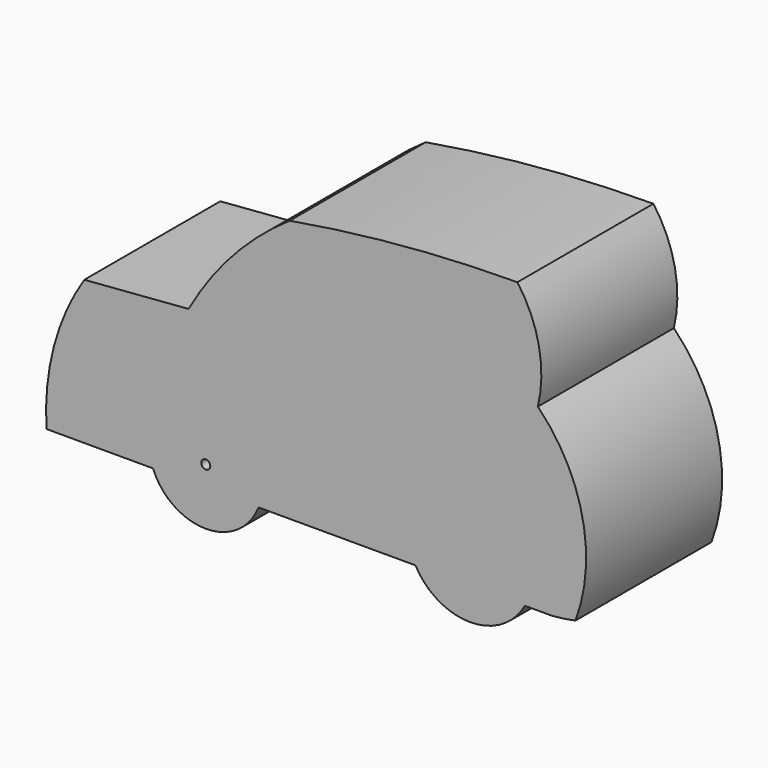
from build123d import *

# Parameters (mm, degrees)
F0_R     = 10.0661107962
F1_DEPTH = 381


with BuildPart() as f1:
    # F0 (on Front) → F1 (new body)
    with BuildSketch(Plane.XZ):
        with BuildLine():
            ThreePointArc((-460.4171146545, -80.3520751223), (-528.7422428891, -234.5899299241), (-545.0866186853, -402.490199078))
            Line((-545.0866186853, -402.490199078), (-306.3518632039, -402.490199078))
            ThreePointArc((-306.3518632039, -402.490199078), (-211.6500630521, -231.3956211083), (-61.0918521756, -356.1914972432))
            ThreePointArc((-61.0918521756, -356.1914972432), (-63.2959760406, -379.7497081198), (-69.8318411473, -402.490199078))
            Line((-69.8318411473, -402.490199078), (281.923010605, -402.490199078))
            ThreePointArc((281.923010605, -402.490199078), (369.5574089397, -199.0626294837), (544.651634751, -334.7260951996))
            ThreePointArc((544.651634751, -334.7260951996), (540.2117829098, -369.7170034539), (527.173623783, -402.490199078))
            Line((527.173623783, -402.490199078), (587.5886353005, -402.490199078))
            ThreePointArc((587.5886353005, -402.490199078), (614.2875363688, -399.5230484268), (640.7299934295, -394.7868299108))
            ThreePointArc((640.7299934295, -394.7868299108), (656.2355333133, -185.0675662335), (556.3726911105, 0))
            Line((556.3726911105, 0), (-226.5663393053, -61.8719576371))
            Line((-226.5663393053, -61.8719576371), (-409.496628924, -76.3280706806))
            Line((-409.496628924, -76.3280706806), (-460.4171146545, -80.3520751223))
        make_face()
        with BuildLine():
            ThreePointArc((0, 185.9708741245), (-127.8124548077, 75.3314520254), (-226.5663393053, -61.8719576371))
            Line((-226.5663393053, -61.8719576371), (556.3726911105, 0))
            ThreePointArc((556.3726911105, 0), (558.7501920915, 120.3142873349), (510.4560028632, 230.5361160923))
            ThreePointArc((510.4560028632, 230.5361160923), (254.2993354525, 218.8905544569), (0, 185.9708741245))
        make_face()
        with BuildLine():
            ThreePointArc((-460.4171146545, -80.3520751223), (-528.7422428891, -234.5899299241), (-545.0866186853, -402.490199078))
            Line((-545.0866186853, -402.490199078), (-306.3518632039, -402.490199078))
            ThreePointArc((-306.3518632039, -402.490199078), (-211.6500630521, -231.3956211083), (-61.0918521756, -356.1914972432))
            ThreePointArc((-61.0918521756, -356.1914972432), (-63.2959760406, -379.7497081198), (-69.8318411473, -402.490199078))
            Line((-69.8318411473, -402.490199078), (281.923010605, -402.490199078))
            ThreePointArc((281.923010605, -402.490199078), (369.5574089397, -199.0626294837), (544.651634751, -334.7260951996))
            ThreePointArc((544.651634751, -334.7260951996), (540.2117829098, -369.7170034539), (527.173623783, -402.490199078))
            Line((527.173623783, -402.490199078), (587.5886353005, -402.490199078))
            ThreePointArc((587.5886353005, -402.490199078), (614.2875363688, -399.5230484268), (640.7299934295, -394.7868299108))
            ThreePointArc((640.7299934295, -394.7868299108), (656.2355333133, -185.0675662335), (556.3726911105, 0))
            Line((556.3726911105, 0), (-226.5663393053, -61.8719576371))
            Line((-226.5663393053, -61.8719576371), (-409.496628924, -76.3280706806))
            Line((-409.496628924, -76.3280706806), (-460.4171146545, -80.3520751223))
        make_face()
        with BuildLine():
            ThreePointArc((-61.0918521756, -356.1914972432), (-211.6500630521, -231.3956211083), (-306.3518632039, -402.490199078))
            Line((-306.3518632039, -402.490199078), (-69.8318411473, -402.490199078))
            ThreePointArc((-69.8318411473, -402.490199078), (-63.2959760406, -379.7497081198), (-61.0918521756, -356.1914972432))
        make_face()
        with Locations((-188.0918521756, -356.1914972432)):
            Circle(F0_R, mode=Mode.SUBTRACT)
        with BuildLine():
            Line((-69.8318411473, -402.490199078), (-306.3518632039, -402.490199078))
            ThreePointArc((-306.3518632039, -402.490199078), (-188.0918521756, -483.1914972432), (-69.8318411473, -402.490199078))
        make_face()
        with BuildLine():
            ThreePointArc((544.651634751, -334.7260951996), (369.5574089397, -199.0626294837), (281.923010605, -402.490199078))
            Line((281.923010605, -402.490199078), (527.173623783, -402.490199078))
            ThreePointArc((527.173623783, -402.490199078), (540.2117829098, -369.7170034539), (544.651634751, -334.7260951996))
        make_face()
        with BuildLine():
            Line((527.173623783, -402.490199078), (281.923010605, -402.490199078))
            ThreePointArc((281.923010605, -402.490199078), (404.548317194, -474.8294127566), (527.173623783, -402.490199078))
        make_face()
        with BuildLine():
            ThreePointArc((0, 185.9708741245), (-127.8124548077, 75.3314520254), (-226.5663393053, -61.8719576371))
            Line((-226.5663393053, -61.8719576371), (556.3726911105, 0))
            ThreePointArc((556.3726911105, 0), (558.7501920915, 120.3142873349), (510.4560028632, 230.5361160923))
            ThreePointArc((510.4560028632, 230.5361160923), (254.2993354525, 218.8905544569), (0, 185.9708741245))
        make_face()
        with BuildLine():
            ThreePointArc((-61.0918521756, -356.1914972432), (-211.6500630521, -231.3956211083), (-306.3518632039, -402.490199078))
            Line((-306.3518632039, -402.490199078), (-69.8318411473, -402.490199078))
            ThreePointArc((-69.8318411473, -402.490199078), (-63.2959760406, -379.7497081198), (-61.0918521756, -356.1914972432))
        make_face()
        with Locations((-188.0918521756, -356.1914972432)):
            Circle(F0_R, mode=Mode.SUBTRACT)
        with BuildLine():
            Line((-69.8318411473, -402.490199078), (-306.3518632039, -402.490199078))
            ThreePointArc((-306.3518632039, -402.490199078), (-188.0918521756, -483.1914972432), (-69.8318411473, -402.490199078))
        make_face()
        with BuildLine():
            ThreePointArc((544.651634751, -334.7260951996), (369.5574089397, -199.0626294837), (281.923010605, -402.490199078))
            Line((281.923010605, -402.490199078), (527.173623783, -402.490199078))
            ThreePointArc((527.173623783, -402.490199078), (540.2117829098, -369.7170034539), (544.651634751, -334.7260951996))
        make_face()
        with BuildLine():
            Line((527.173623783, -402.490199078), (281.923010605, -402.490199078))
            ThreePointArc((281.923010605, -402.490199078), (404.548317194, -474.8294127566), (527.173623783, -402.490199078))
        make_face()
    extrude(amount=F1_DEPTH)


solid = f1.part
